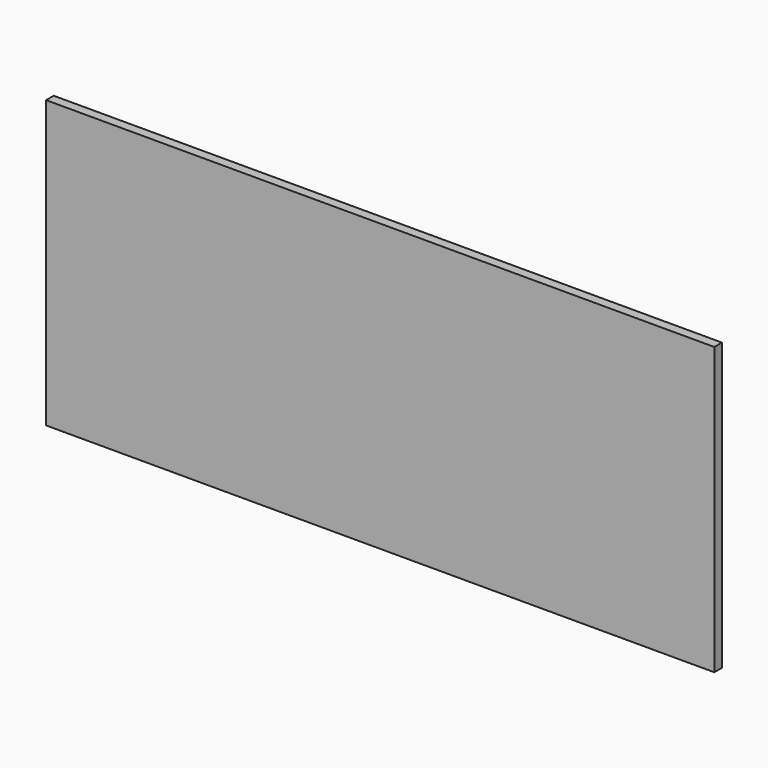
from build123d import *

# Parameters (mm, degrees)
F0_W     = 12.7
F0_H     = 381
F0_W_2   = 863.6
F1_DEPTH = 12.7


with BuildPart() as f1:
    # F0 (on Front) → F1 (new body)
    with BuildSketch(Plane.XZ):
        with Locations((-409.910758, 40.513416)):
            Rectangle(F0_W, F0_H)
        with Locations((28.239242, 40.513416)):
            Rectangle(F0_W_2, F0_H)
        with Locations((466.389242, 40.513416)):
            Rectangle(F0_W, F0_H)
    extrude(amount=F1_DEPTH)


solid = f1.part
